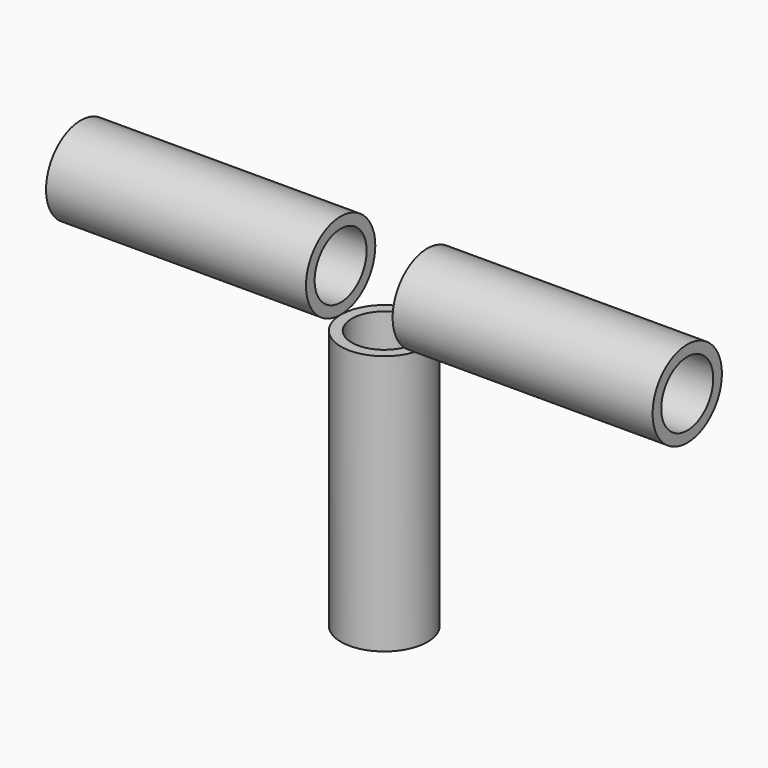
from build123d import *

# Parameters (mm, degrees)
F0_R     = 2
F0_R_2   = 1.5
F1_DEPTH = 12
F3_START = 2
F2_R     = 2.0000985341
F2_R_2   = 1.5
F3_DEPTH = 12
F4_START = -2
F4_DEPTH = 12


with BuildPart() as f1:
    # F0 (on Top) → F1 (new body)
    with BuildSketch(Plane.XY):
        Circle(F0_R)
        Circle(F0_R_2, mode=Mode.SUBTRACT)
    extrude(amount=F1_DEPTH)


with BuildPart() as f3:
    # F2 (on Right) → F3 (new body)
    with BuildSketch(Plane.YZ.offset(F3_START)):
        with Locations((-0.0198531127, 14)):
            Circle(F2_R)
        with Locations((-0.0198531127, 14)):
            Circle(F2_R_2, mode=Mode.SUBTRACT)
    extrude(amount=F3_DEPTH)


with BuildPart() as f4:
    # F2 (on Right) → F4 (new body)
    with BuildSketch(Plane.YZ.offset(F4_START)):
        with Locations((-0.0198531127, 14)):
            Circle(F2_R)
        with Locations((-0.0198531127, 14)):
            Circle(F2_R_2, mode=Mode.SUBTRACT)
    extrude(amount=-F4_DEPTH)


solid = Compound([f1.part, f3.part, f4.part])
